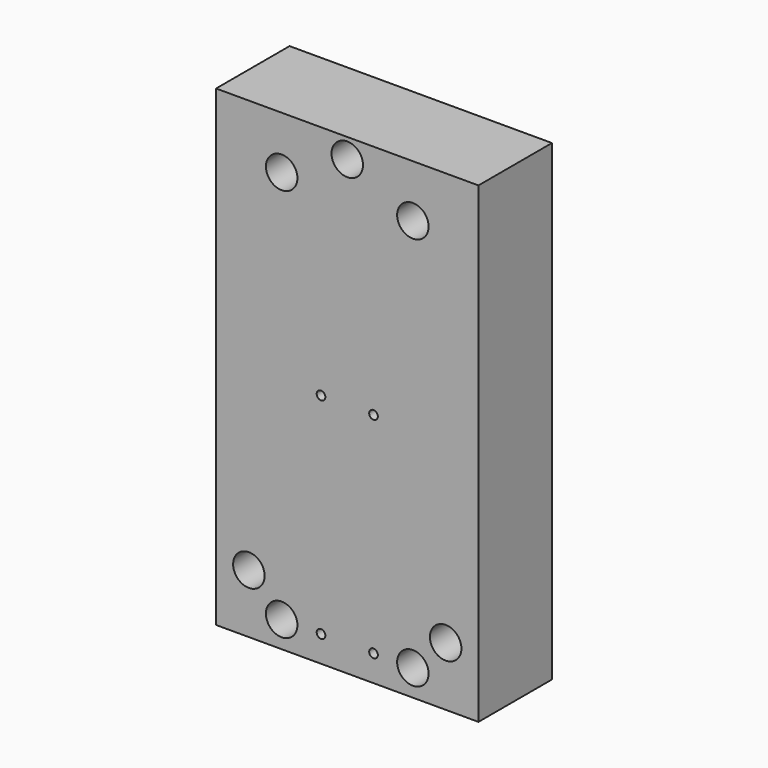
from build123d import *

# Parameters (mm, degrees)
SKETCH_W        = 100
SKETCH_H        = 180
SKETCH_R        = 1.65
PAD_DEPTH       = 35
SKETCH001_R     = 3.3
SKETCH001_R_2   = 2.625
POCKET_DEPTH    = 35.001
SKETCH002_R     = 6
POCKET001_DEPTH = 25
SKETCH003_R     = 3
POCKET002_DEPTH = 25


with BuildPart() as part:
    # Sketch → Pad (new body)
    with BuildSketch(Plane.XZ):
        Rectangle(SKETCH_W, SKETCH_H)
        with Locations((10, 0)):
            Circle(SKETCH_R, mode=Mode.SUBTRACT)
        with Locations((-10, 0)):
            Circle(SKETCH_R, mode=Mode.SUBTRACT)
        with Locations((10, -80)):
            Circle(SKETCH_R, mode=Mode.SUBTRACT)
        with Locations((-10, -80)):
            Circle(SKETCH_R, mode=Mode.SUBTRACT)
    extrude(amount=PAD_DEPTH)

    # Sketch001 (on Face10 of Pad) → Pocket (cut, through all)
    with BuildSketch(Plane.XZ.offset(35)):
        with Locations((25, -80)):
            Circle(SKETCH001_R)
        with Locations((-25, -80)):
            Circle(SKETCH001_R)
        with Locations((25, 70)):
            Circle(SKETCH001_R)
        with Locations((-25, 70)):
            Circle(SKETCH001_R)
        with Locations((0, 82.5)):
            Circle(SKETCH001_R_2)
        with Locations((-37.5, -67.5)):
            Circle(SKETCH001_R_2)
        with Locations((37.5, -67.5)):
            Circle(SKETCH001_R_2)
    extrude(amount=-POCKET_DEPTH, mode=Mode.SUBTRACT)

    # Sketch002 (on Face5 of Pocket) → Pocket001 (cut)
    with BuildSketch(Plane.XZ.offset(35)):
        with Locations((25, 70)):
            Circle(SKETCH002_R)
        with Locations((-25, 70)):
            Circle(SKETCH002_R)
        with Locations((25, -80)):
            Circle(SKETCH002_R)
        with Locations((-25, -80)):
            Circle(SKETCH002_R)
        with Locations((-37.5, -67.5)):
            Circle(SKETCH002_R)
        with Locations((37.5, -67.5)):
            Circle(SKETCH002_R)
        with Locations((0, 82.5)):
            Circle(SKETCH002_R)
    extrude(amount=-POCKET001_DEPTH, mode=Mode.SUBTRACT)

    # Sketch003 (on Face4 of Pocket001) → Pocket002 (cut)
    with BuildSketch(Plane(origin=(0, 0, 0), x_dir=(1, 0, 0), z_dir=(0, 1, 0))):
        with Locations((-10, 80)):
            Circle(SKETCH003_R)
        with Locations((10, 80)):
            Circle(SKETCH003_R)
        with Locations((-10, 0)):
            Circle(SKETCH003_R)
        with Locations((10, 0)):
            Circle(SKETCH003_R)
    extrude(amount=-POCKET002_DEPTH, mode=Mode.SUBTRACT)


solid = part.part
